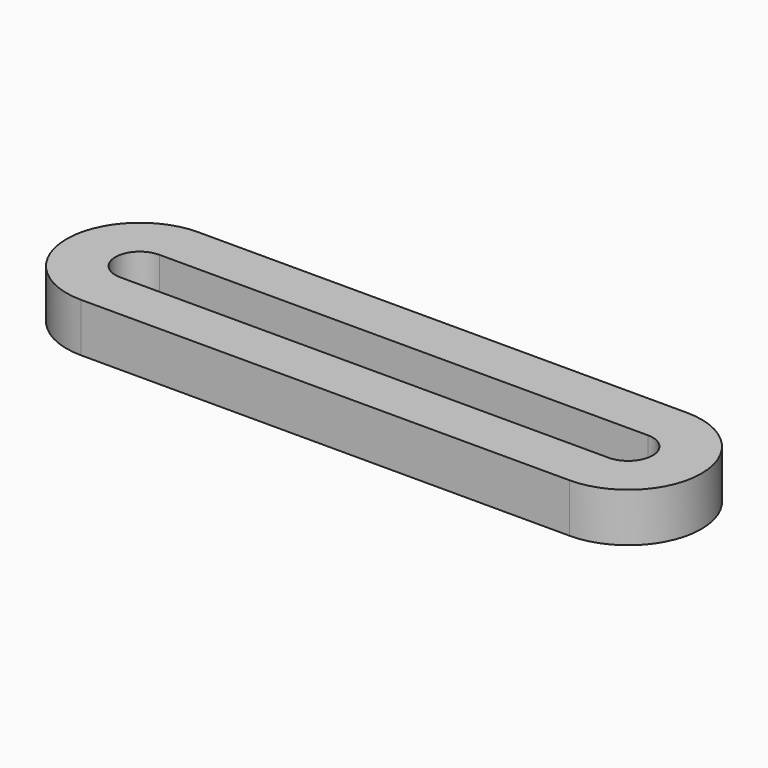
from build123d import *

# Parameters (mm, degrees)
F2_DEPTH = 4
F3_DEPTH = 25


with BuildPart() as f2:
    # F0 (on Top) → F2 (new body)
    with BuildSketch(Plane.XY):
        with BuildLine():
            Line((40, 8), (0, 8))
            ThreePointArc((0, 8), (-6, 2), (0, -4))
            Line((0, -4), (40, -4))
            ThreePointArc((40, -4), (46, 2), (40, 8))
        make_face()
    extrude(amount=F2_DEPTH)

    # F1 (on Top) → F3 (cut)
    with BuildSketch(Plane.XY):
        with BuildLine():
            ThreePointArc((0, 4), (-2, 2), (0, 0))
            Line((0, 0), (40, 0))
            ThreePointArc((40, 0), (42, 2), (40, 4))
            Line((40, 4), (0, 4))
        make_face()
    extrude(amount=F3_DEPTH, mode=Mode.SUBTRACT)


solid = f2.part
